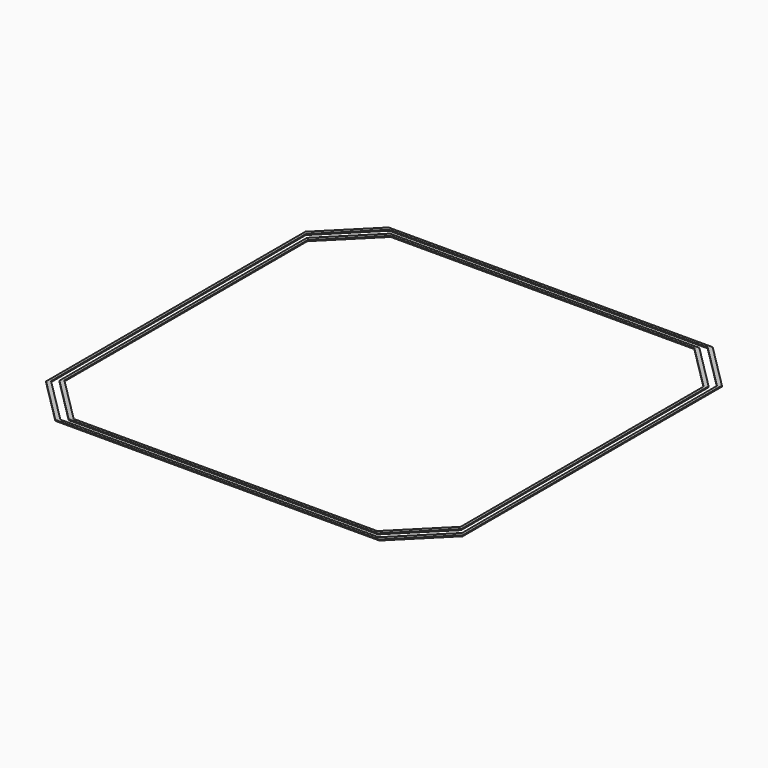
from build123d import *

# Parameters (mm, degrees)
F1_DEPTH = 0.4


with BuildPart() as f1:
    # F0 (on Top) → F1 (new body)
    with BuildSketch(Plane.XY):
        Polygon((90, 70), (70, 90), (-70, 90), (-90, 70), (-90, -70), (-70, -90), (70, -90), (90, -70), align=None)
        Polygon((-68.8, 88.8), (68.8, 88.8), (88.8, 68.8), (88.8, -68.8), (68.8, -88.8), (-68.8, -88.8), (-88.8, -68.8), (-88.8, 68.8), align=None, mode=Mode.SUBTRACT)
        Polygon((-86.8, -66.8), (-66.8, -86.8), (66.8, -86.8), (86.8, -66.8), (86.8, 66.8), (66.8, 86.8), (-66.8, 86.8), (-86.8, 66.8), align=None)
        Polygon((65.6, -85.6), (-65.6, -85.6), (-85.6, -65.6), (-85.6, 65.6), (-65.6, 85.6), (65.6, 85.6), (85.6, 65.6), (85.6, -65.6), align=None, mode=Mode.SUBTRACT)
    extrude(amount=F1_DEPTH)


solid = f1.part
